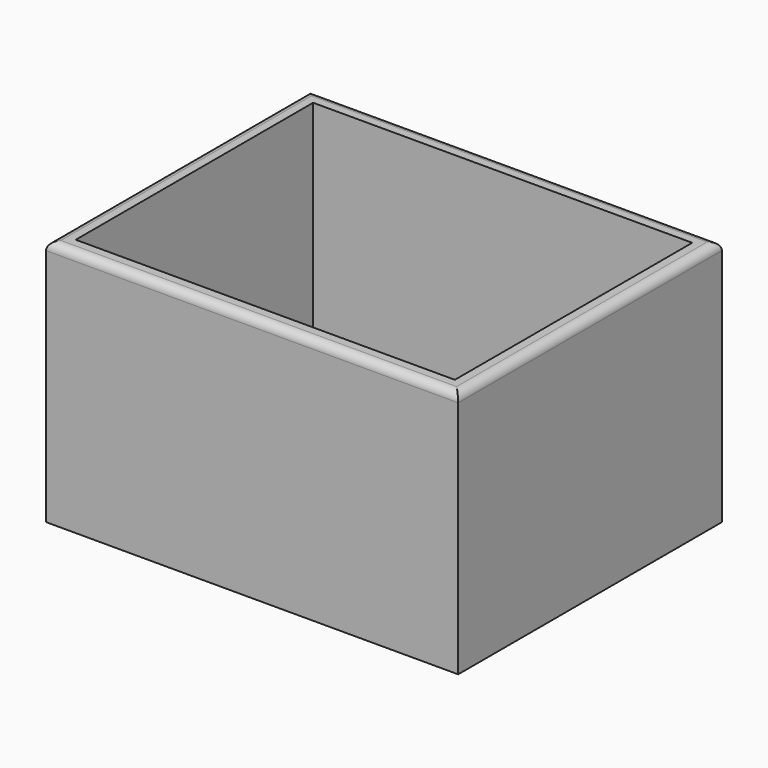
from build123d import *

# Parameters (mm, degrees)
F0_W     = 127
F0_H     = 76.2
F1_DEPTH = 101.6
F2_T     = -5.08
F3_R     = 2.54


with BuildPart() as f1:
    # F0 (on Front) → F1 (new body)
    with BuildSketch(Plane.XZ):
        with Locations((-6.154592, -11.322558)):
            Rectangle(F0_W, F0_H)
    extrude(amount=F1_DEPTH)

    # F2
    f2_openings = [f1.faces().sort_by_distance(p)[0] for p in [
        (-6.154592, -50.8, 26.777442),
    ]]
    offset(amount=F2_T, openings=f2_openings)

    # F3
    f3_edges = [f1.edges().sort_by_distance(p)[0] for p in [
        (-6.154592, -101.6, 26.777442),
        (-69.654592, -50.8, 26.777442),
        (-6.154592, 0, 26.777442),
        (57.345408, -50.8, 26.777442),
    ]]
    fillet(f3_edges, radius=F3_R)


solid = f1.part
